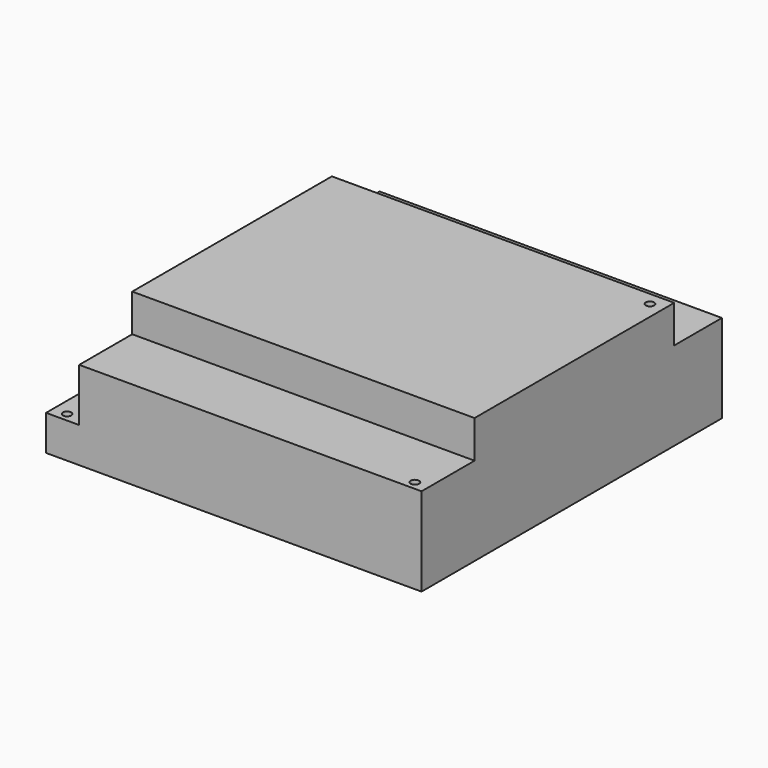
from build123d import *

# Parameters (mm, degrees)
F0_W     = 170
F0_H     = 170
F1_DEPTH = 40
F2_W     = 155
F2_H     = 113
F3_DEPTH = 17
F4_DEPTH = 24
F6_D     = 3.7973
F7_W     = 16.0088125554
F7_H     = 25.888455566
F7_W_2   = 40.4067277214
F7_H_2   = 12.8438859247
F7_W_3   = 24.2321552965
F7_H_3   = 26.0891397484
F7_W_4   = 19.8441686174
F7_H_4   = 32.3103985284
F8_DEPTH = 2


with BuildPart() as f1:
    # F0 (on Top) → F1 (new body)
    with BuildSketch(Plane.XY):
        Rectangle(F0_W, F0_H)
    extrude(amount=F1_DEPTH)

    # F2 (on face) → F3 (join)
    with BuildSketch(Plane.XY.offset(40)):
        with Locations((7.5, 1.5)):
            Rectangle(F2_W, F2_H)
    extrude(amount=F3_DEPTH)

    # F2 (on face) → F4 (cut)
    with BuildSketch(Plane.XY.offset(40)):
        Polygon((-70, 58), (-70, 85), (-85, 85), (-85, -85), (-70, -85), (-70, -55), align=None)
    extrude(amount=-F4_DEPTH, mode=Mode.SUBTRACT)

    # F6 (through all)
    with Locations(Plane(origin=(0, 0, 0), x_dir=(1, 0, 0), z_dir=(0, 0, -1))):
        with Locations((-78.65, -74.84), (78.83, -51.98), (78.83, 81.04), (-78.65, 81.04)):
            Hole(F6_D / 2)

    # F7 (on face) → F8 (join)
    with BuildSketch(Plane(origin=(0, 85, 0), x_dir=(-1, 0, 0), z_dir=(0, 1, 0))):
        with Locations((-71.7186613039, 17.3905782867)):
            Rectangle(F7_W, F7_H)
        with Locations((-35.5920631724, 10.868293466)):
            Rectangle(F7_W_2, F7_H_2)
        with Locations((7.3542475339, 17.4909203779)):
            Rectangle(F7_W_3, F7_H_3)
        with Locations((55.5439972199, 20.6015497679)):
            Rectangle(F7_W_4, F7_H_4)
    extrude(amount=F8_DEPTH)


solid = f1.part
